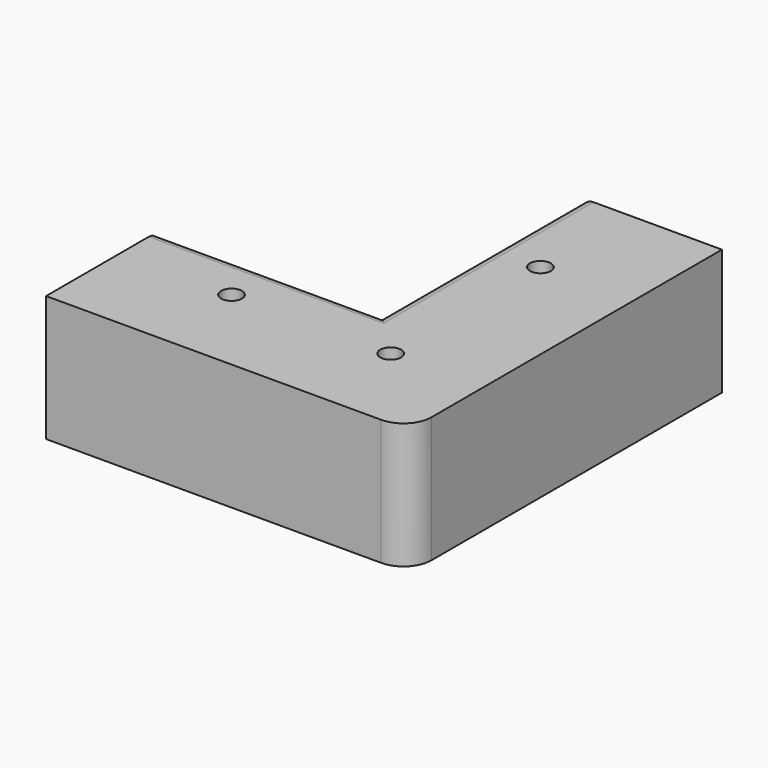
from build123d import *

# Parameters (mm, degrees)
F1_DEPTH  = 76.2
F2_W      = 12.7
F2_H      = 28.6385
F3_DEPTH  = 31.75
F5_DEPTH  = 50.8
F6_R      = 2.54
F7_R      = 2.54
F8_R      = 6.35
F9_R      = 2.38125
F10_DEPTH = 50.8
F12_DEPTH = 2.54
F14_DEPTH = 3.048


with BuildPart() as f1:
    # F0 (on Front) → F1 (new body)
    with BuildSketch(Plane.XZ):
        Polygon((22.2132794439, -11.7242682397), (22.2132794439, 16.9142317603), (-9.5367205561, 16.9142317603), (-9.5367205561, 10.5642317603), (9.5132794439, 10.5642317603), (9.5132794439, -5.3742682397), (-9.5367205561, -5.3742682397), (-9.5367205561, -11.7242682397), align=None)
    extrude(amount=F1_DEPTH)

    # F2 (on face) → F3 (join)
    with BuildSketch(Plane.YZ.offset(22.2132794439)):
        with Locations((-82.55, 2.5949817603)):
            Rectangle(F2_W, F2_H)
    extrude(amount=-F3_DEPTH)

    # F4 (on face) → F5 (join)
    with BuildSketch(Plane(origin=(-9.5367205561, 0, 0), x_dir=(0, -1, 0), z_dir=(-1, 0, 0))):
        Polygon((88.9, -11.7242682397), (88.9, 16.9142317603), (57.15, 16.9142317603), (57.15, 10.5642317603), (76.2, 10.5642317603), (76.2, -5.3742682397), (57.15, -5.3742682397), (57.15, -11.7242682397), align=None)
    extrude(amount=F5_DEPTH)

    # F6
    f6_edges = [f1.edges().sort_by_distance(p)[0] for p in [
        (-9.536721, -28.575, 16.914232),
    ]]
    fillet(f6_edges, radius=F6_R)

    # F7
    f7_edges = [f1.edges().sort_by_distance(p)[0] for p in [
        (-34.936721, -57.15, 16.914232),
    ]]
    fillet(f7_edges, radius=F7_R)

    # F8
    f8_edges = [f1.edges().sort_by_distance(p)[0] for p in [
        (22.213279, -88.9, 2.594982),
    ]]
    fillet(f8_edges, radius=F8_R)

    # F9 (on face) → F10 (cut)
    with BuildSketch(Plane.XY.offset(16.9142317603)):
        with Locations((1.2582794439, -67.945)):
            Circle(F9_R)
        with Locations((1.2582794439, -25.4)):
            Circle(F9_R)
        with Locations((-34.9367205561, -67.945)):
            Circle(F9_R)
    extrude(amount=-F10_DEPTH, mode=Mode.SUBTRACT)

    # F11 (on face) → F12 (join)
    with BuildSketch(Plane(origin=(-60.3367205561, 0, 0), x_dir=(0, -1, 0), z_dir=(-1, 0, 0))):
        Polygon((76.2, 13.7392317603), (76.2, 10.5642317603), (76.2, -5.3742682397), (76.2, -8.5492682397), (83.82, -8.5492682397), (83.82, 13.7392317603), align=None)
    extrude(amount=F12_DEPTH)

    # F13 (on face) → F14 (cut)
    with BuildSketch(Plane(origin=(0, 0, 0), x_dir=(-1, 0, 0), z_dir=(0, 1, 0))):
        Polygon((-8.7512794439, 14.5012317603), (-9.5132794439, 14.5012317603), (-17.8952794439, 14.5012317603), (-17.8952794439, -9.3112682397), (-9.5132794439, -9.3112682397), (-8.7512794439, -9.3112682397), (-8.7512794439, -5.3742682397), (-9.5132794439, -5.3742682397), (-9.5132794439, 10.5642317603), (-8.7512794439, 10.5642317603), align=None)
    extrude(amount=-F14_DEPTH, mode=Mode.SUBTRACT)


solid = f1.part
